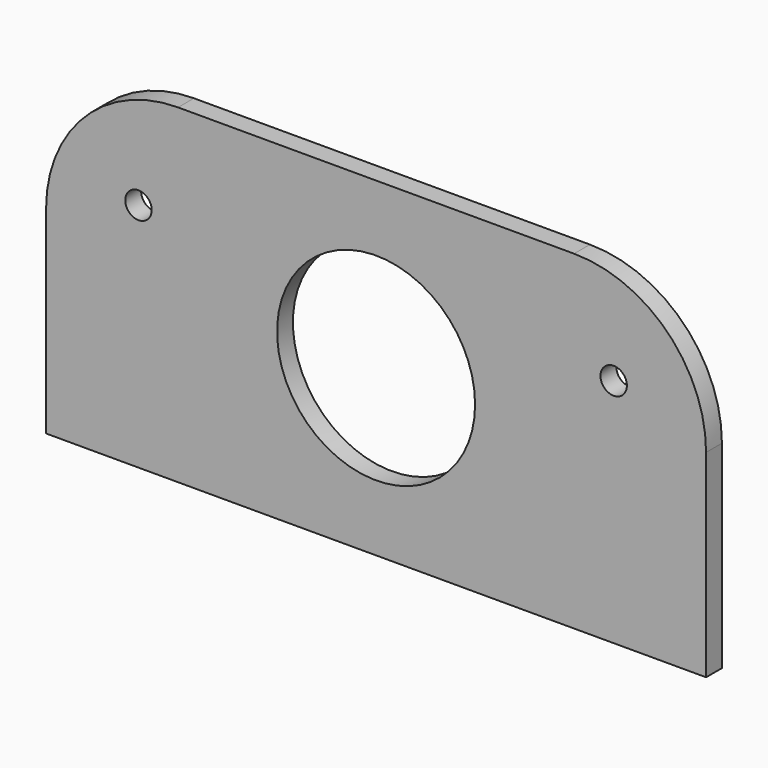
from build123d import *

# Parameters (mm, degrees)
F0_W     = 100
F0_H     = 50
F0_R     = 2
F0_R_2   = 15
F1_DEPTH = 3
F2_R     = 20


with BuildPart() as f1:
    # F0 (on Front) → F1 (new body)
    with BuildSketch(Plane.XZ):
        Rectangle(F0_W, F0_H)
        with Locations((-36, 10)):
            Circle(F0_R, mode=Mode.SUBTRACT)
        Circle(F0_R_2, mode=Mode.SUBTRACT)
        with Locations((36, 10)):
            Circle(F0_R, mode=Mode.SUBTRACT)
    extrude(amount=F1_DEPTH)

    # F2
    f2_edges = [f1.edges().sort_by_distance(p)[0] for p in [
        (-50, -1.5, 25),
        (50, -1.5, 25),
    ]]
    fillet(f2_edges, radius=F2_R)


solid = f1.part
